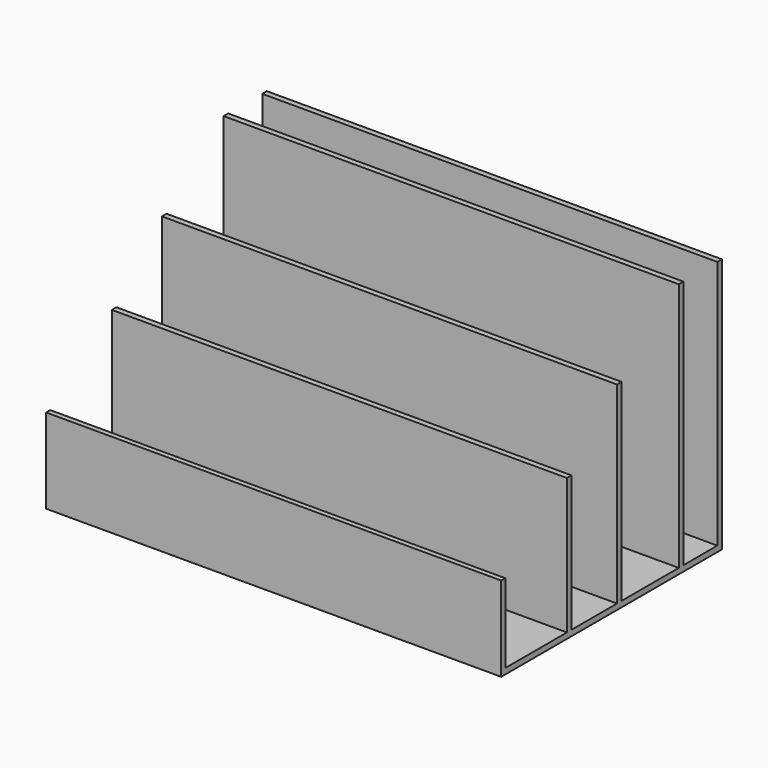
from build123d import *

# Parameters (mm, degrees)
SKETCH_W     = 203.2
SKETCH_H     = 203.2
PAD_DEPTH    = 2.54
SKETCH001_W  = 203.2
SKETCH001_H  = 2.54
PAD001_DEPTH = 111.506
SKETCH002_W  = 203.2
SKETCH002_H  = 2.54
PAD002_DEPTH = 86.106
SKETCH003_W  = 203.2
SKETCH003_H  = 2.54
PAD003_DEPTH = 60.706
SKETCH004_W  = 203.2
SKETCH004_H  = 2.54
PAD004_DEPTH = 35.306
SKETCH007_W  = 227.037744
SKETCH007_H  = 43.51487
POCKET_DEPTH = 80.01


with BuildPart() as part:
    # Sketch (on XY_Plane of Origin) → Pad (new body)
    with BuildSketch(Plane.XY):
        with Locations((-34.247654, 21.844)):
            Rectangle(SKETCH_W, SKETCH_H)
    extrude(amount=PAD_DEPTH)

    # Sketch001 (on Face6 of Pad) → Pad001 (join)
    with BuildSketch(Plane.XY.offset(2.54)):
        with Locations((-34.247654, 122.174)):
            Rectangle(SKETCH001_W, SKETCH001_H)
        with Locations((-34.247654, 100.624772)):
            Rectangle(SKETCH001_W, SKETCH001_H)
    extrude(amount=PAD001_DEPTH)

    # Sketch002 (on Face6 of Pad001) → Pad002 (join)
    with BuildSketch(Plane.XY.offset(2.54)):
        with Locations((-34.247654, 66.156921)):
            Rectangle(SKETCH002_W, SKETCH002_H)
    extrude(amount=PAD002_DEPTH)

    # Sketch003 (on Face11 of Pad002) → Pad003 (join)
    with BuildSketch(Plane.XY.offset(2.54)):
        with Locations((-34.247654, 38.216921)):
            Rectangle(SKETCH003_W, SKETCH003_H)
    extrude(amount=PAD003_DEPTH)

    # Sketch004 (on Face15 of Pad003) → Pad004 (join)
    with BuildSketch(Plane.XY.offset(2.54)):
        with Locations((-34.247654, 1.27)):
            Rectangle(SKETCH004_W, SKETCH004_H)
    extrude(amount=PAD004_DEPTH)

    # Sketch007 → Pocket (cut)
    with BuildSketch(Plane.XZ.offset(79.756)):
        with Locations((-24.815948, 21.757435)):
            Rectangle(SKETCH007_W, SKETCH007_H)
    extrude(amount=-POCKET_DEPTH, mode=Mode.SUBTRACT)


solid = part.part
